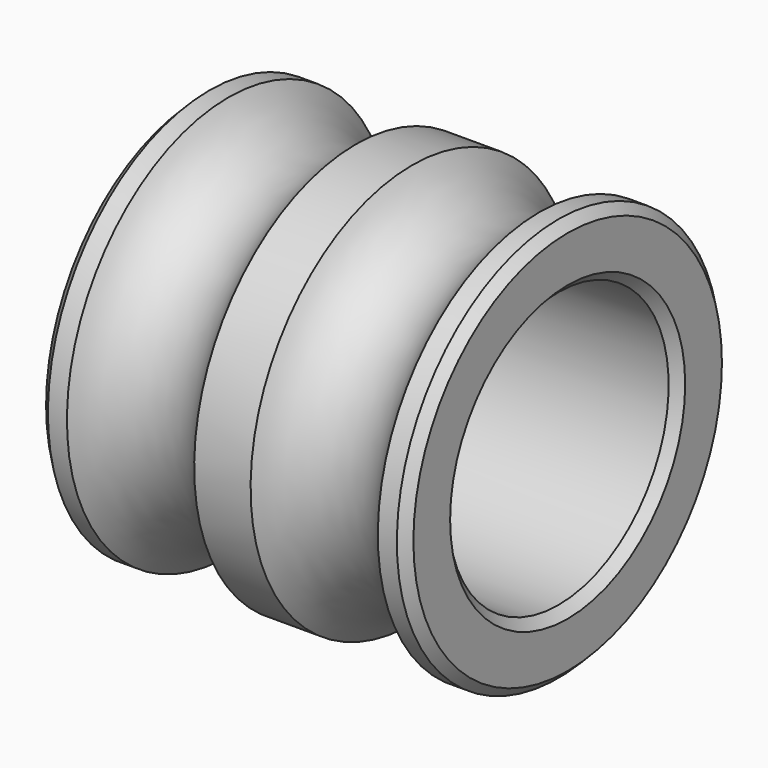
from build123d import *

# Parameters (mm, degrees)
F1_W    = 40
F1_H    = 7
F3_SIZE = 1
F0_R    = 8


with BuildPart() as f2:
    # F1 (on Front) → F2 (revolve)
    with BuildSketch(Plane.XZ):
        with Locations((0, 18.5)):
            Rectangle(F1_W, F1_H)
    revolve(axis=Axis((0, 0, 0), (1, 0, 0)))

    # F3
    f3_edges = [f2.edges().sort_by_distance(p)[0] for p in [
        (-20, 0, -22),
        (-20, 0, -15),
        (20, 0, -22),
        (20, 0, -15),
    ]]
    chamfer(f3_edges, length=F3_SIZE)

    # F0 (on Front) → F4 (revolve, cut)
    with BuildSketch(Plane.XZ):
        with Locations((-10, 26)):
            Circle(F0_R)
        with Locations((10, 26)):
            Circle(F0_R)
    revolve(axis=Axis((0, 0, 0), (1, 0, 0)), mode=Mode.SUBTRACT)


solid = f2.part
